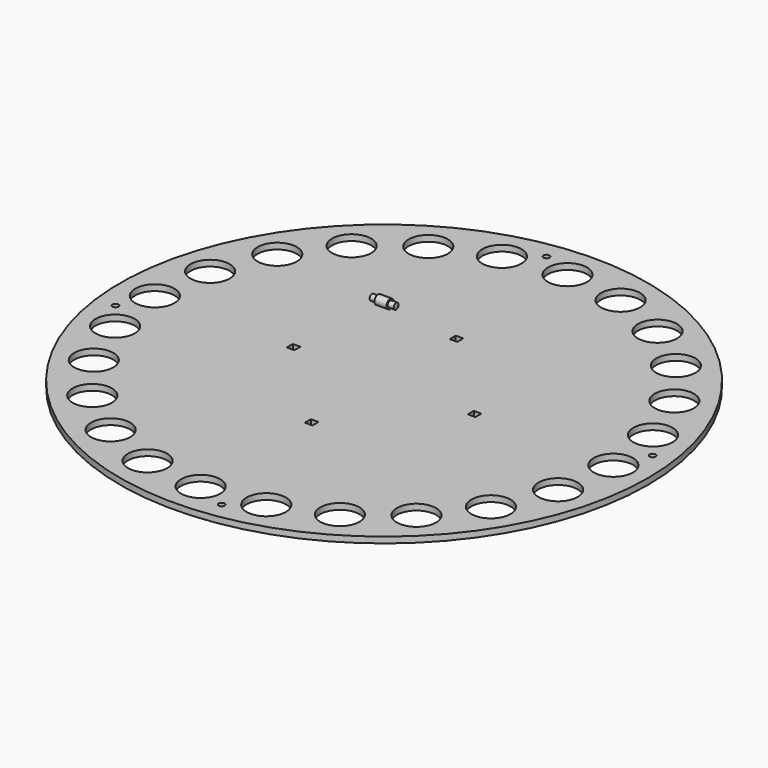
from build123d import *

# Parameters (mm, degrees)
F0_R     = 175
F0_R_2   = 13
F0_R_3   = 2
F0_W     = 5
F0_H     = 5
F1_DEPTH = 4
F2_R     = 3
F2_R_2   = 2
F3_DEPTH = 4
F4_DEPTH = 8


with BuildPart() as f1:
    # F0 (on Top) → F1 (new body)
    with BuildSketch(Plane.XY):
        Circle(F0_R)
        with Locations((-107.4802307404, -107.4802307404)):
            Circle(F0_R_2, mode=Mode.SUBTRACT)
        with Locations((-76, -131.6358613752)):
            Circle(F0_R_2, mode=Mode.SUBTRACT)
        with Locations((-39.3404948556, -146.8207255959)):
            Circle(F0_R_2, mode=Mode.SUBTRACT)
        with Locations((-131.6358613752, -76)):
            Circle(F0_R_2, mode=Mode.SUBTRACT)
        with Locations((-146.8207255959, -39.3404948556)):
            Circle(F0_R_2, mode=Mode.SUBTRACT)
        with Locations((-161.1097899732, -21.2105062358)):
            Circle(F0_R_3, mode=Mode.SUBTRACT)
        with Locations((21.2105062358, -161.1097899732)):
            Circle(F0_R_3, mode=Mode.SUBTRACT)
        with Locations((0, -152)):
            Circle(F0_R_2, mode=Mode.SUBTRACT)
        with Locations((39.3404948556, -146.8207255959)):
            Circle(F0_R_2, mode=Mode.SUBTRACT)
        with Locations((76, -131.6358613752)):
            Circle(F0_R_2, mode=Mode.SUBTRACT)
        with Locations((107.4802307404, -107.4802307404)):
            Circle(F0_R_2, mode=Mode.SUBTRACT)
        with Locations((0, -60)):
            Rectangle(F0_W, F0_H, mode=Mode.SUBTRACT)
        with Locations((131.6358613752, -76)):
            Circle(F0_R_2, mode=Mode.SUBTRACT)
        with Locations((146.8207255959, -39.3404948556)):
            Circle(F0_R_2, mode=Mode.SUBTRACT)
        with Locations((-152, 0)):
            Circle(F0_R_2, mode=Mode.SUBTRACT)
        with Locations((-146.8207255959, 39.3404948556)):
            Circle(F0_R_2, mode=Mode.SUBTRACT)
        with Locations((-131.6358613752, 76)):
            Circle(F0_R_2, mode=Mode.SUBTRACT)
        with Locations((-60, 0)):
            Rectangle(F0_W, F0_H, mode=Mode.SUBTRACT)
        with Locations((-107.4802307404, 107.4802307404)):
            Circle(F0_R_2, mode=Mode.SUBTRACT)
        with Locations((-76, 131.6358613752)):
            Circle(F0_R_2, mode=Mode.SUBTRACT)
        with Locations((-39.3404948556, 146.8207255959)):
            Circle(F0_R_2, mode=Mode.SUBTRACT)
        with Locations((-21.2105062358, 161.1097899732)):
            Circle(F0_R_3, mode=Mode.SUBTRACT)
        with Locations((60, 0)):
            Rectangle(F0_W, F0_H, mode=Mode.SUBTRACT)
        with Locations((0, 60)):
            Rectangle(F0_W, F0_H, mode=Mode.SUBTRACT)
        with Locations((152, 0)):
            Circle(F0_R_2, mode=Mode.SUBTRACT)
        with Locations((161.1097899732, 21.2105062358)):
            Circle(F0_R_3, mode=Mode.SUBTRACT)
        with Locations((146.8207255959, 39.3404948556)):
            Circle(F0_R_2, mode=Mode.SUBTRACT)
        with Locations((131.6358613752, 76)):
            Circle(F0_R_2, mode=Mode.SUBTRACT)
        with Locations((0, 152)):
            Circle(F0_R_2, mode=Mode.SUBTRACT)
        with Locations((39.3404948556, 146.8207255959)):
            Circle(F0_R_2, mode=Mode.SUBTRACT)
        with Locations((76, 131.6358613752)):
            Circle(F0_R_2, mode=Mode.SUBTRACT)
        with Locations((107.4802307404, 107.4802307404)):
            Circle(F0_R_2, mode=Mode.SUBTRACT)
    extrude(amount=F1_DEPTH)


with BuildPart() as f3:
    # F2 (on Right) → F3 (new body, symmetric)
    with BuildSketch(Plane.YZ):
        with Locations((0, 50)):
            Circle(F2_R)
        with Locations((0, 50)):
            Circle(F2_R_2, mode=Mode.SUBTRACT)
    extrude(amount=F3_DEPTH, both=True)

    # F2 (on Right) → F4 (join, symmetric)
    with BuildSketch(Plane.YZ):
        with Locations((0, 50)):
            Circle(F2_R_2)
    extrude(amount=F4_DEPTH, both=True)


solid = Compound([f1.part, f3.part])
